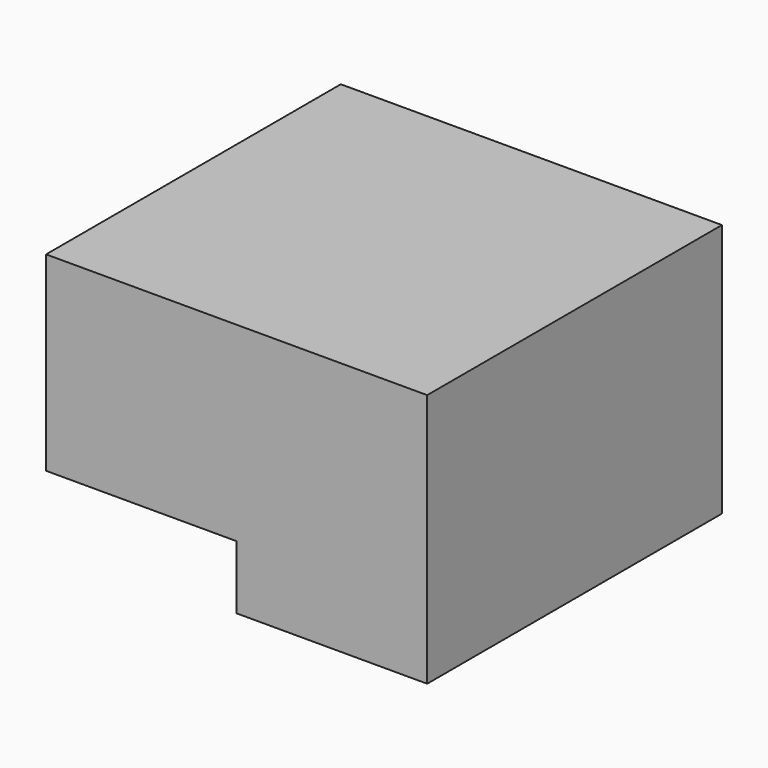
from build123d import *

# Parameters (mm, degrees)
F0_W     = 19.05
F0_H     = 6.35
F1_DEPTH = 36.83


with BuildPart() as f1:
    # F0 (on Front) → F1 (new body)
    with BuildSketch(Plane.XZ):
        Polygon((-37.449954, 6.35), (-37.449954, 19.05), (-37.449954, 25.4), (-56.499954, 25.4), (-56.499954, 6.35), align=None)
        with Locations((-27.924954, 22.225)):
            Rectangle(F0_W, F0_H)
        Polygon((-37.449954, 0), (-18.399954, 0), (-18.399954, 19.05), (-37.449954, 19.05), (-37.449954, 6.35), align=None)
    extrude(amount=-F1_DEPTH)


solid = f1.part
